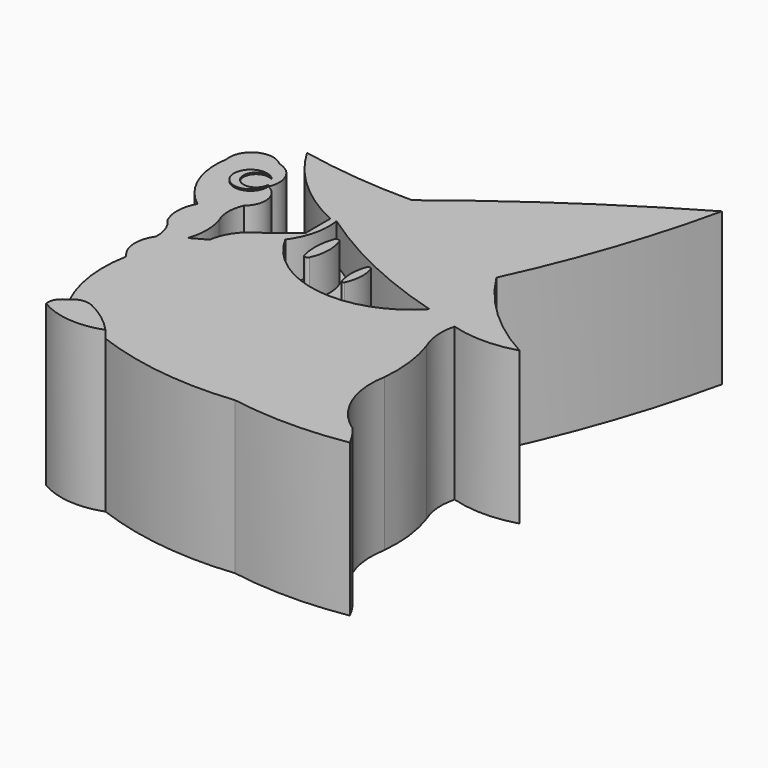
from build123d import *

# Parameters (mm, degrees)
F1_DEPTH = 25.4
F3_DEPTH = 0.254
F5_DEPTH = 6.35
F7_DEPTH = 1.27


with BuildPart() as f1:
    # F0 (on Top) → F1 (new body)
    with BuildSketch(Plane.XY):
        with BuildLine():
            ThreePointArc((25.499046, 10.18772), (37.34433, 7.273723), (49.542308, 7.166576))
            ThreePointArc((49.542308, 7.166576), (59.109263, 6.361494), (68.676218, 7.166576))
            ThreePointArc((68.676218, 7.166576), (67.66707, 8.882251), (66.488296, 10.486125))
            ThreePointArc((66.488296, 10.486125), (61.480718, 16.596846), (60.651142, 24.453597))
            ThreePointArc((60.651142, 24.453597), (60.581585, 29.680598), (59.400324, 34.772847))
            ThreePointArc((59.400324, 34.772847), (58.595793, 37.960262), (58.879148, 41.23541))
            ThreePointArc((58.879148, 41.23541), (64.299362, 40.444263), (69.719575, 41.23541))
            ThreePointArc((69.719575, 41.23541), (61.198485, 47.34438), (54.501284, 55.41135))
            ThreePointArc((54.501284, 55.41135), (61.017596, 71.57709), (65.758646, 88.349566))
            ThreePointArc((65.758646, 88.349566), (48.603509, 77.579957), (32.279015, 65.588541))
            ThreePointArc((32.279015, 65.588541), (22.727137, 66.05081), (13.27099, 67.476757))
            ThreePointArc((13.27099, 67.476757), (19.281494, 60.099473), (27.243776, 54.888662))
            Line((27.243776, 54.888662), (27.243776, 49.727544))
            ThreePointArc((27.243776, 49.727544), (24.946398, 47.862182), (22.58618, 46.076994))
            ThreePointArc((22.58618, 46.076994), (19.956312, 43.712231), (18.683871, 40.412351))
            ThreePointArc((18.683871, 40.412351), (17.413772, 39.740532), (16.166251, 39.027661))
            ThreePointArc((16.166251, 39.027661), (16.709722, 42.300567), (16.166251, 45.573473))
            ThreePointArc((16.166251, 45.573473), (15.61028, 48.154032), (16.166251, 50.734591))
            ThreePointArc((16.166251, 50.734591), (17.468425, 54.06764), (15.285085, 56.902759))
            ThreePointArc((15.285085, 56.902759), (15.245628, 60.550066), (12.389823, 62.819161))
            ThreePointArc((12.389823, 62.819161), (8.109951, 63.436313), (6.221656, 59.546258))
            ThreePointArc((6.221656, 59.546258), (6.981172, 52.747617), (11.148616, 47.322601))
            ThreePointArc((11.148616, 47.322601), (10.300829, 44.357989), (10.931111, 41.339643))
            ThreePointArc((10.931111, 41.339643), (12.26077, 39.219384), (12.659186, 36.748603))
            ThreePointArc((12.659186, 36.748603), (11.67473, 33.258245), (13.162711, 29.95103))
            ThreePointArc((13.162711, 29.95103), (13.136507, 21.545797), (16.183855, 13.712387))
            ThreePointArc((16.183855, 13.712387), (15.066637, 12.687257), (14.799166, 11.194767))
            ThreePointArc((14.799166, 11.194767), (20.034555, 9.474147), (25.499046, 10.18772))
        make_face()
    extrude(amount=F1_DEPTH)

    # F2 (on face) → F3 (join)
    with BuildSketch(Plane.XY.offset(25.4)):
        with BuildLine():
            ThreePointArc((15.285085, 56.902759), (11.304381, 56.052081), (14.373336, 58.726248))
            ThreePointArc((14.373336, 58.726248), (10.050782, 55.425279), (15.285085, 56.902759))
        make_face()
    extrude(amount=F3_DEPTH)

    # F4 (on face) → F5 (cut)
    with BuildSketch(Plane.XY.offset(25.4)):
        with BuildLine():
            ThreePointArc((28.30782, 54.837245), (28.14811, 50.533264), (26.335881, 46.626144))
            ThreePointArc((26.335881, 46.626144), (38.875379, 37.904283), (53.269263, 43.01564))
            ThreePointArc((53.269263, 43.01564), (40.303335, 47.901924), (28.30782, 54.837245))
        make_face()
        with BuildLine():
            ThreePointArc((39.436687, 42.002268), (39.013767, 44.590738), (39.47692, 47.172312))
            ThreePointArc((39.47692, 47.172312), (39.828965, 47.383895), (40.181011, 47.172312))
            ThreePointArc((40.181011, 47.172312), (40.563597, 44.57128), (39.919492, 42.022385))
            ThreePointArc((39.919492, 42.022385), (39.683239, 41.888733), (39.436687, 42.002268))
        make_face(mode=Mode.SUBTRACT)
        with BuildLine():
            ThreePointArc((31.047942, 44.697933), (30.682425, 47.680975), (31.24911, 50.632417))
            ThreePointArc((31.24911, 50.632417), (31.716176, 50.937117), (32.15437, 50.592184))
            ThreePointArc((32.15437, 50.592184), (32.630986, 47.625359), (31.953201, 44.697933))
            ThreePointArc((31.953201, 44.697933), (31.500571, 44.415393), (31.047942, 44.697933))
        make_face(mode=Mode.SUBTRACT)
    extrude(amount=-F5_DEPTH, mode=Mode.SUBTRACT)

    # F6 (on face) → F7 (join)
    with BuildSketch(Plane.XY.offset(25.4)):
        with BuildLine():
            ThreePointArc((19.70306, 14.540644), (17.799455, 14.738373), (16.183855, 13.712387))
            ThreePointArc((16.183855, 13.712387), (15.066637, 12.687257), (14.799166, 11.194767))
            ThreePointArc((14.799166, 11.194767), (20.034555, 9.474147), (25.499046, 10.18772))
            ThreePointArc((25.499046, 10.18772), (22.810777, 12.643433), (19.70306, 14.540644))
        make_face()
    extrude(amount=F7_DEPTH)


solid = f1.part
